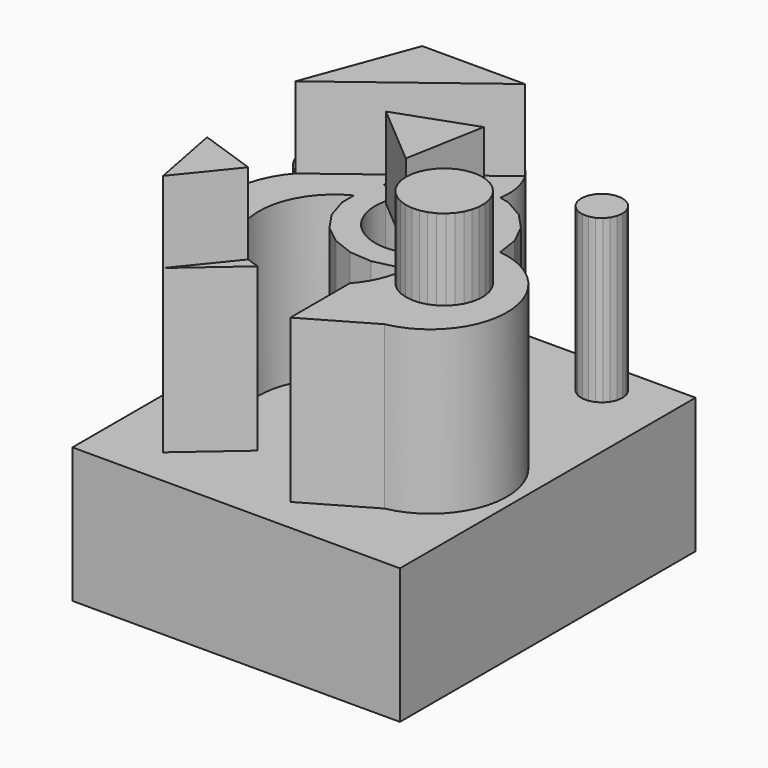
from build123d import *

# Parameters (mm, degrees)
F0_W     = 60.5372022837
F0_H     = 68.3061406016
F1_DEPTH = 25
F3_DEPTH = 30
F5_DEPTH = 15


with BuildPart() as f1:
    # F0 (on Top) → F1 (new body)
    with BuildSketch(Plane.XY):
        with Locations((-36.7259019986, 34.1530703008)):
            Rectangle(F0_W, F0_H)
    extrude(amount=F1_DEPTH)

    # F2 (on face) → F3 (join)
    with BuildSketch(Plane.XY.offset(25)):
        with BuildLine():
            Line((-22.1290194054, 62.743389809), (-22.1611187409, 62.5201340268))
            ThreePointArc((-22.1611187409, 62.5201340268), (-19.2077082943, 60.7472143348), (-16.8872465406, 58.2013677664))
            Line((-16.8872465406, 58.2013677664), (-15.9743708465, 58.788037352))
            Line((-15.9743708465, 58.788037352), (-15.2637569545, 59.6081295006))
            Line((-15.2637569545, 59.6081295006), (-14.8129745762, 60.5952052236))
            Line((-14.8129745762, 60.5952052236), (-14.6585434187, 61.6692975163))
            Line((-14.6585434187, 61.6692975163), (-14.8129745762, 62.743389809))
            Line((-14.8129745762, 62.743389809), (-15.2637569545, 63.7304655321))
            Line((-15.2637569545, 63.7304655321), (-15.9743708465, 64.5505576807))
            Line((-15.9743708465, 64.5505576807), (-16.8872465406, 65.1372272663))
            Line((-16.8872465406, 65.1372272663), (-17.9284282773, 65.4429458082))
            Line((-17.9284282773, 65.4429458082), (-19.0135657043, 65.4429458082))
            Line((-19.0135657043, 65.4429458082), (-20.054747441, 65.1372272663))
            Line((-20.054747441, 65.1372272663), (-20.9676231351, 64.5505576807))
            Line((-20.9676231351, 64.5505576807), (-21.6782370271, 63.7304655321))
            Line((-21.6782370271, 63.7304655321), (-22.1290194054, 62.743389809))
        make_face()
        with BuildLine():
            ThreePointArc((-16.8872465406, 58.2013677664), (-19.2077082943, 60.7472143348), (-22.1611187409, 62.5201340268))
            Line((-22.1611187409, 62.5201340268), (-22.2834505629, 61.6692975163))
            Line((-22.2834505629, 61.6692975163), (-22.1290194054, 60.5952052236))
            Line((-22.1290194054, 60.5952052236), (-21.6782370271, 59.6081295006))
            Line((-21.6782370271, 59.6081295006), (-20.9676231351, 58.788037352))
            Line((-20.9676231351, 58.788037352), (-20.054747441, 58.2013677664))
            Line((-20.054747441, 58.2013677664), (-19.0135657043, 57.8956492245))
            Line((-19.0135657043, 57.8956492245), (-17.9284282773, 57.8956492245))
            Line((-17.9284282773, 57.8956492245), (-16.8872465406, 58.2013677664))
        make_face()
        with BuildLine():
            Line((-48.4615378082, 41.8981585313), (-48.4615378082, 39.1465827014))
            Line((-48.4615378082, 39.1465827014), (-47.2438519434, 35.1989420851))
            Line((-47.2438519434, 35.1989420851), (-44.9166769466, 31.7856032745))
            Line((-44.9166769466, 31.7856032745), (-41.686792529, 29.2098564023))
            Line((-41.686792529, 29.2098564023), (-37.8411880951, 27.7005678815))
            Line((-37.8411880951, 27.7005678815), (-33.7215624751, 27.3918446205))
            Line((-33.7215624751, 27.3918446205), (-29.6939624839, 28.3111180359))
            Line((-29.6939624839, 28.3111180359), (-28.1783982184, 29.1861294726))
            ThreePointArc((-28.1783982184, 29.1861294726), (-28.3470166225, 31.6274853373), (-28.9392695125, 34.0019088756))
            ThreePointArc((-28.9392695125, 34.0019088756), (-39.6817311484, 33.3644756914), (-43.7803290259, 43.3147670692))
            ThreePointArc((-43.7803290259, 43.3147670692), (-46.1834406724, 42.8130191671), (-48.4615378082, 41.8981585313))
        make_face()
        with BuildLine():
            ThreePointArc((-47.8855758698, 16.7225310416), (-56.0985992666, 29.1290375757), (-48.4615378082, 41.8981585313))
            Line((-48.4615378082, 41.8981585313), (-48.4615378082, 43.2777599309))
            ThreePointArc((-48.4615378082, 43.2777599309), (-53.6612100365, 40.6027497312), (-59.3440614757, 41.9802367072))
            ThreePointArc((-59.3440614757, 41.9802367072), (-63.2393202989, 30.9765947301), (-58.3921782672, 20.3578192741))
            Line((-58.3921782672, 20.3578192741), (-47.8855758698, 16.7225310416))
        make_face()
        with BuildLine():
            Line((-48.4615378082, 43.2777599309), (-48.4615378082, 41.8981585313))
            ThreePointArc((-48.4615378082, 41.8981585313), (-46.1834406724, 42.8130191671), (-43.7803290259, 43.3147670692))
            ThreePointArc((-43.7803290259, 43.3147670692), (-43.3721622104, 44.6210053314), (-42.7760281809, 45.8528668356))
            ThreePointArc((-42.7760281809, 45.8528668356), (-45.0865004205, 46.289917089), (-47.2438519434, 47.2254005472))
            Line((-47.2438519434, 47.2254005472), (-48.4615378082, 43.2777599309))
        make_face()
        with BuildLine():
            ThreePointArc((-59.3440614757, 41.9802367072), (-53.6612100365, 40.6027497312), (-48.4615378082, 43.2777599309))
            Line((-48.4615378082, 43.2777599309), (-47.2438519434, 47.2254005472))
            ThreePointArc((-47.2438519434, 47.2254005472), (-53.876714481, 45.9471982035), (-59.3440614757, 41.9802367072))
        make_face()
        with BuildLine():
            ThreePointArc((-45.486169294, 15.8923354978), (-46.7047814193, 16.2527835078), (-47.8855758698, 16.7225310416))
            Line((-47.8855758698, 16.7225310416), (-58.3921782672, 20.3578192741))
            Line((-58.3921782672, 20.3578192741), (-55.806396171, 6.9481457536))
            Line((-55.806396171, 6.9481457536), (-45.486169294, 15.8923354978))
        make_face()
        with BuildLine():
            Line((-45.486169294, 15.8923354978), (-47.8855758698, 16.7225310416))
            ThreePointArc((-47.8855758698, 16.7225310416), (-46.7047814193, 16.2527835078), (-45.486169294, 15.8923354978))
        make_face()
        with BuildLine():
            ThreePointArc((-59.3440614757, 41.9802367072), (-53.876714481, 45.9471982035), (-47.2438519434, 47.2254005472))
            Line((-47.2438519434, 47.2254005472), (-44.9166769466, 50.6387393578))
            Line((-44.9166769466, 50.6387393578), (-41.686792529, 53.21448623))
            Line((-41.686792529, 53.21448623), (-38.2209121076, 54.574744058))
            ThreePointArc((-38.2209121076, 54.574744058), (-36.2220725565, 58.7014227602), (-32.8090456732, 61.7634619755))
            ThreePointArc((-32.8090456732, 61.7634619755), (-42.7606691135, 67.0015367598), (-51.825799188, 60.3460387865))
            Line((-51.825799188, 60.3460387865), (-52.247753704, 59.047396319))
            Line((-52.247753704, 59.047396319), (-53.264693363, 57.9179704069))
            Line((-53.264693363, 57.9179704069), (-54.6530928733, 57.2998151183))
            ThreePointArc((-54.6530928733, 57.2998151183), (-62.6639397249, 51.3748019707), (-59.3440614757, 41.9802367072))
        make_face()
        with BuildLine():
            ThreePointArc((-25.6112270877, 39.7333110178), (-26.7452222219, 36.5598407079), (-28.9392695125, 34.0019088756))
            ThreePointArc((-28.9392695125, 34.0019088756), (-28.3470166225, 31.6274853373), (-28.1783982184, 29.1861294726))
            Line((-28.1783982184, 29.1861294726), (-26.1162580557, 30.3767066506))
            Line((-26.1162580557, 30.3767066506), (-23.3063439293, 33.4050738515))
            Line((-23.3063439293, 33.4050738515), (-21.513893306, 37.1271359231))
            Line((-21.513893306, 37.1271359231), (-20.8981732898, 41.2121713161))
            ThreePointArc((-20.8981732898, 41.2121713161), (-23.176972105, 40.225025652), (-25.6112270877, 39.7333110178))
        make_face()
        with BuildLine():
            Line((-56.1728853462, 57.2998151183), (-54.6530928733, 57.2998151183))
            Line((-54.6530928733, 57.2998151183), (-53.264693363, 57.9179704069))
            Line((-53.264693363, 57.9179704069), (-52.247753704, 59.047396319))
            ThreePointArc((-52.247753704, 59.047396319), (-52.0577008848, 59.703516315), (-51.825799188, 60.3460387865))
            Line((-51.825799188, 60.3460387865), (-51.778112002, 60.4928048539))
            Line((-51.778112002, 60.4928048539), (-51.9369735736, 62.0042717447))
            Line((-51.9369735736, 62.0042717447), (-52.6968698101, 63.3204506348))
            Line((-52.6968698101, 63.3204506348), (-53.9264077487, 64.2137622369))
            Line((-53.9264077487, 64.2137622369), (-55.4129891098, 64.5297448597))
            Line((-55.4129891098, 64.5297448597), (-56.8995704708, 64.2137622369))
            Line((-56.8995704708, 64.2137622369), (-58.1291084094, 63.3204506348))
            Line((-58.1291084094, 63.3204506348), (-58.8890046459, 62.0042717447))
            Line((-58.8890046459, 62.0042717447), (-59.0478662176, 60.4928048539))
            Line((-59.0478662176, 60.4928048539), (-58.5782245155, 59.047396319))
            Line((-58.5782245155, 59.047396319), (-57.5612848565, 57.9179704069))
            Line((-57.5612848565, 57.9179704069), (-56.1728853462, 57.2998151183))
        make_face()
        with BuildLine():
            ThreePointArc((-38.2209121076, 54.574744058), (-38.5956254636, 52.1514414918), (-38.4647376729, 49.7028349876))
            ThreePointArc((-38.4647376729, 49.7028349876), (-35.917775225, 50.4040156063), (-33.276460423, 50.3578843983))
            ThreePointArc((-33.276460423, 50.3578843983), (-32.1821663883, 52.3522954386), (-31.538439496, 54.5342144381))
            Line((-31.538439496, 54.5342144381), (-33.7215624751, 55.0324980118))
            Line((-33.7215624751, 55.0324980118), (-37.8411880951, 54.7237747508))
            Line((-37.8411880951, 54.7237747508), (-38.2209121076, 54.574744058))
        make_face()
        with BuildLine():
            ThreePointArc((-25.4924368754, 41.2121713161), (-25.5221821781, 40.4703595313), (-25.6112270877, 39.7333110178))
            ThreePointArc((-25.6112270877, 39.7333110178), (-23.176972105, 40.225025652), (-20.8981732898, 41.2121713161))
            Line((-20.8981732898, 41.2121713161), (-21.513893306, 45.2972067092))
            Line((-21.513893306, 45.2972067092), (-23.3063439293, 49.0192687807))
            Line((-23.3063439293, 49.0192687807), (-26.1162580557, 52.0476359817))
            Line((-26.1162580557, 52.0476359817), (-29.6939624839, 54.1132245964))
            Line((-29.6939624839, 54.1132245964), (-31.538439496, 54.5342144381))
            ThreePointArc((-31.538439496, 54.5342144381), (-32.1821663883, 52.3522954386), (-33.276460423, 50.3578843983))
            ThreePointArc((-33.276460423, 50.3578843983), (-27.7018972848, 47.2170670349), (-25.4924368754, 41.2121713161))
        make_face()
        with BuildLine():
            Line((-26.1162580557, 30.3767066506), (-28.1783982184, 29.1861294726))
            ThreePointArc((-28.1783982184, 29.1861294726), (-29.1552178734, 24.3113994943), (-31.7780598998, 20.087909385))
            Line((-31.7780598998, 20.087909385), (-19.8612846434, 13.2077559829))
            ThreePointArc((-19.8612846434, 13.2077559829), (-8.3836595485, 27.654128901), (-20.8981732898, 41.2121713161))
            Line((-20.8981732898, 41.2121713161), (-21.513893306, 37.1271359231))
            Line((-21.513893306, 37.1271359231), (-23.3063439293, 33.4050738515))
            Line((-23.3063439293, 33.4050738515), (-26.1162580557, 30.3767066506))
        make_face()
        with BuildLine():
            ThreePointArc((-32.8090456732, 61.7634619755), (-36.2220725565, 58.7014227602), (-38.2209121076, 54.574744058))
            Line((-38.2209121076, 54.574744058), (-37.8411880951, 54.7237747508))
            Line((-37.8411880951, 54.7237747508), (-33.7215624751, 55.0324980118))
            Line((-33.7215624751, 55.0324980118), (-31.538439496, 54.5342144381))
            ThreePointArc((-31.538439496, 54.5342144381), (-31.5283054399, 58.2622796706), (-32.8090456732, 61.7634619755))
        make_face()
        Polygon((-19.8612846434, 13.2077559829), (-31.7780598998, 20.087909385), (-31.7780598998, 6.3276025807), align=None)
        with BuildLine():
            ThreePointArc((-51.825799188, 60.3460387865), (-52.0577008848, 59.703516315), (-52.247753704, 59.047396319))
            Line((-52.247753704, 59.047396319), (-51.825799188, 60.3460387865))
        make_face()
    extrude(amount=F3_DEPTH)

    # F4 (on face) → F5, piece 2 (join)
    with BuildSketch(Plane.XY.offset(55)):
        Polygon((-26.2620052687, 33.5041556085), (-27.0939852202, 32.4519443914), (-27.711797928, 31.2612947606), (-28.093114031, 29.9752398961), (-28.2241517719, 28.6402611713), (-28.1001751053, 27.3046081957), (-27.7256648709, 26.0165549478), (-27.1141568443, 24.822655028), (-26.2877525189, 23.76605909), (-25.2763203003, 22.8849552641), (-24.116415984, 22.211188938), (-22.8499615341, 21.7691117825), (-21.5227299142, 21.5747016176), (-20.1826907331, 21.6349849332), (-18.8782764982, 21.9477829334), (-17.6566321386, 22.5017902833), (-16.5619110644, 23.2769837138), (-15.6336793475, 24.2453457148), (-14.9054857006, 25.3718771603), (-14.4036489395, 26.6158622689), (-14.1463067521, 27.9323401774), (-14.1427601557, 29.2737299443), (-14.3931373335, 30.5915502484), (-14.8883890019, 31.8381716304), (-15.6106154753, 32.9685379455), (-16.5337136071, 33.9417948099), (-17.6243202258, 34.7227661848), (-18.8430179666, 35.2832257298), (-20.1457599179, 35.6029169768), (-21.4854615914, 35.6702854511), (-22.8137026779, 35.4828962805), (-24.0824770839, 35.0475221979), (-25.2459279966, 34.379898757), align=None)
        Polygon((-59.3440614757, 41.9802367072), (-32.9535993169, 62.0042717447), (-51.9369735736, 62.0042717447), align=None)
        Polygon((-47.8855758698, 16.7225310416), (-58.3921782672, 20.3578192741), (-55.806396171, 6.9481457536), align=None)
    extrude(amount=F5_DEPTH)


with BuildPart() as f5:
    # F4 (on face) → F5 (new body)
    with BuildSketch(Plane.XY.offset(55)):
        Polygon((-43.2330894863, 42.7516107818), (-31.8525281156, 33.1021616796), (-29.1861407459, 47.782741487), align=None)
    extrude(amount=F5_DEPTH)


solid = Compound([f1.part, f5.part])
